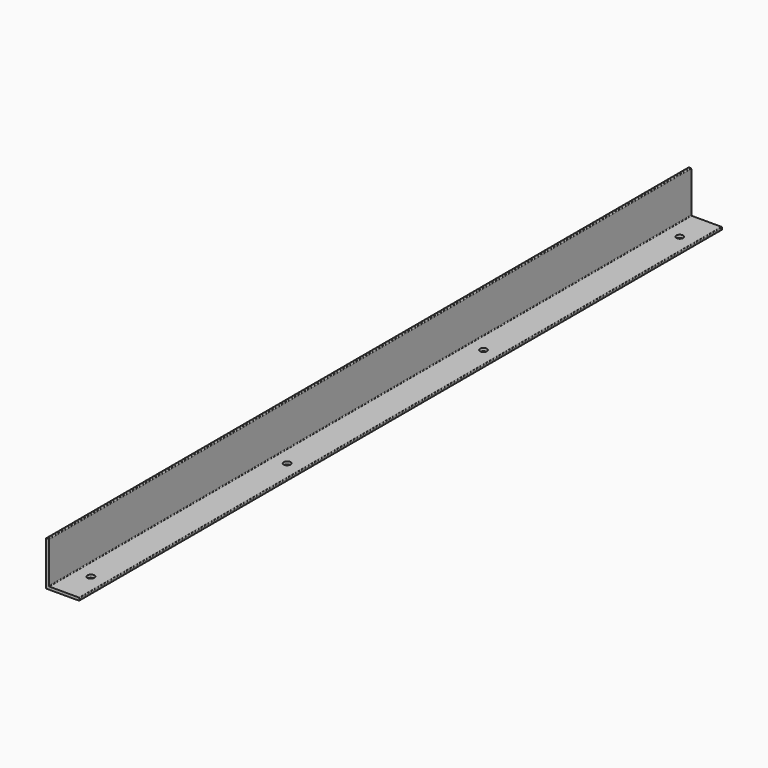
from build123d import *

# Parameters (mm, degrees)
F1_DEPTH = 1828.8
F3_D     = 15.875


with BuildPart() as f1:
    # F0 (on Front) → F1 (new body)
    with BuildSketch(Plane.XZ):
        with BuildLine():
            Line((0, 100.076), (0, 0))
            Line((0, 0), (74.676, 0))
            ThreePointArc((74.676, 0), (75.753631, 0.446369), (76.2, 1.524))
            Line((76.2, 1.524), (76.2, 4.826))
            ThreePointArc((76.2, 4.826), (75.753631, 5.903631), (74.676, 6.35))
            Line((74.676, 6.35), (7.874, 6.35))
            ThreePointArc((7.874, 6.35), (6.796369, 6.796369), (6.35, 7.874))
            Line((6.35, 7.874), (6.35, 100.076))
            ThreePointArc((6.35, 100.076), (5.903631, 101.153631), (4.826, 101.6))
            Line((4.826, 101.6), (1.524, 101.6))
            ThreePointArc((1.524, 101.6), (0.446369, 101.153631), (0, 100.076))
        make_face()
    extrude(amount=F1_DEPTH)

    # F3 (through all)
    with Locations(Plane.XY.offset(6.35)):
        with Locations((41.148, -1752.6), (41.148, -1193.8), (41.148, -635), (41.148, -76.199894)):
            Hole(F3_D / 2)


solid = f1.part
